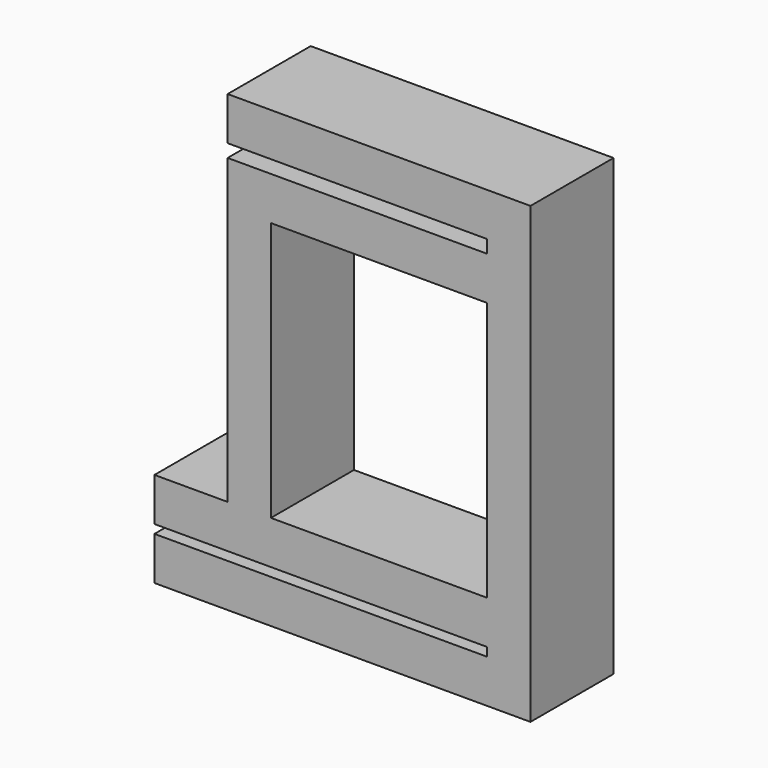
from build123d import *

# Parameters (mm, degrees)
F0_W     = 86.909074
F0_H     = 24
F1_DEPTH = 10
F2_W     = 10
F2_H     = 24
F3_DEPTH = 95
F4_W     = 24
F4_H     = 10
F5_DEPTH = 76.909075
F6_W     = 60
F6_H     = 10
F7_DEPTH = 24


with BuildPart() as f1:
    # F0 (on Top) → F1 (new body)
    with BuildSketch(Plane.XY):
        Rectangle(F0_W, F0_H)
    extrude(amount=F1_DEPTH)

    # F2 (on face) → F3 (join)
    with BuildSketch(Plane.XY.offset(10)):
        with Locations((38.454537, 0)):
            Rectangle(F2_W, F2_H)
    extrude(amount=F3_DEPTH)

    # F4 (on face) → F5 (join, through all)
    with BuildSketch(Plane(origin=(33.454537, 0, 0), x_dir=(0, -1, 0), z_dir=(-1, 0, 0))):
        with Locations((0, 17)):
            Rectangle(F4_W, F4_H)
    extrude(amount=F5_DEPTH)

    # F6 (on face) → F7 (join, through all)
    with BuildSketch(Plane.XZ.offset(12)):
        Polygon((-26.545463, 92), (-26.545463, 22), (-16.545463, 22), (-16.545463, 82), (33.454537, 82), (33.454537, 92), align=None)
        with Locations((3.454537, 100)):
            Rectangle(F6_W, F6_H)
    extrude(amount=-F7_DEPTH)


solid = f1.part
